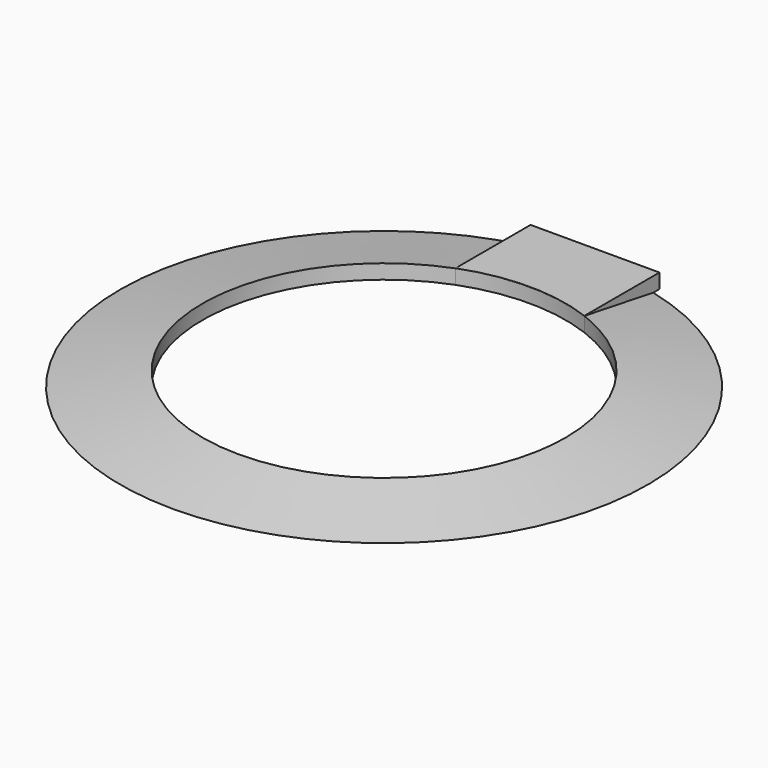
from build123d import *

# Parameters (mm, degrees)
F3_DEPTH = 22.5
F4_DEPTH = 3.75


with BuildPart() as f1:
    # F0 (on Front) → F1 (revolve)
    with BuildSketch(Plane.XZ):
        Polygon((0, 0), (0, 11.919704), (-67.6, 0), align=None)
    revolve(axis=Axis((0, 0, 5.959852), (0, 0, -1)))

    # F2 (on Top) → F3 (cut, symmetric)
    with BuildSketch(Plane.XY):
        with BuildLine():
            ThreePointArc((-16.5, 43.47413), (-26.410225, -38.272052), (46.5, 0))
            ThreePointArc((46.5, 0), (38.272052, 26.410225), (16.5, 43.47413))
            ThreePointArc((16.5, 43.47413), (0, 46.5), (-16.5, 43.47413))
        make_face()
    extrude(amount=F3_DEPTH, both=True, mode=Mode.SUBTRACT)

    # F2 (on Top) → F4 (join)
    with BuildSketch(Plane.XY):
        with BuildLine():
            ThreePointArc((-16.5, 43.47413), (0, 46.5), (16.5, 43.47413))
            Line((16.5, 43.47413), (16.5, 67.52056))
            Line((16.5, 67.52056), (-16.5, 67.52056))
            Line((-16.5, 67.52056), (-16.5, 43.47413))
        make_face()
    extrude(amount=F4_DEPTH)


solid = f1.part
